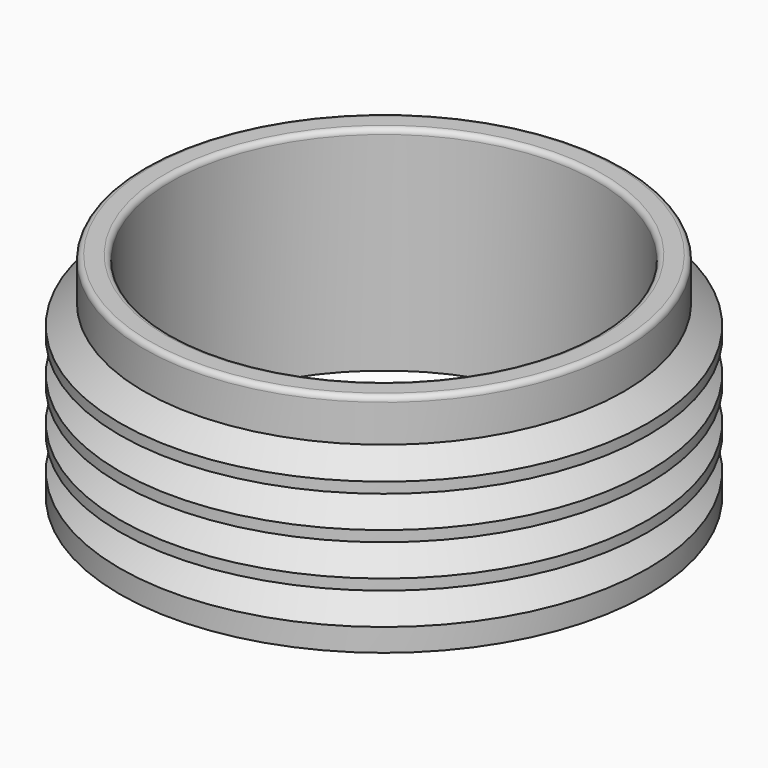
from build123d import *


with BuildPart() as f1:
    # F0 (on Front) → F1 (revolve)
    with BuildSketch(Plane.XZ):
        with BuildLine():
            Line((20, 19.5), (20, 0))
            Line((20, 0), (24.77324, 0))
            Line((24.77324, 0), (24.77324, 2.134631))
            Line((24.77324, 2.134631), (22.5, 4))
            Line((22.5, 4), (22.5, 7))
            Line((22.5, 7), (22.5, 8))
            Line((22.5, 8), (22.5, 11))
            Line((22.5, 11), (22.5, 12))
            Line((22.5, 12), (22.5, 15))
            Line((22.5, 15), (22.5, 16))
            Line((22.5, 16), (22.5, 19.5))
            ThreePointArc((22.5, 19.5), (22.353553, 19.853553), (22, 20))
            Line((22, 20), (20.5, 20))
            ThreePointArc((20.5, 20), (20.146447, 19.853553), (20, 19.5))
        make_face()
        Polygon((22.5, 8), (22.5, 7), (24.77324, 5.134631), (24.77324, 6.134631), align=None)
        Polygon((22.5, 12), (22.5, 11), (24.77324, 9.134631), (24.77324, 10.134631), align=None)
        Polygon((24.77324, 14.134631), (22.5, 16), (22.5, 15), (24.77324, 13.134631), align=None)
    revolve(axis=Axis((0, 0, 9.55633), (0, 0, 1)))


solid = f1.part
